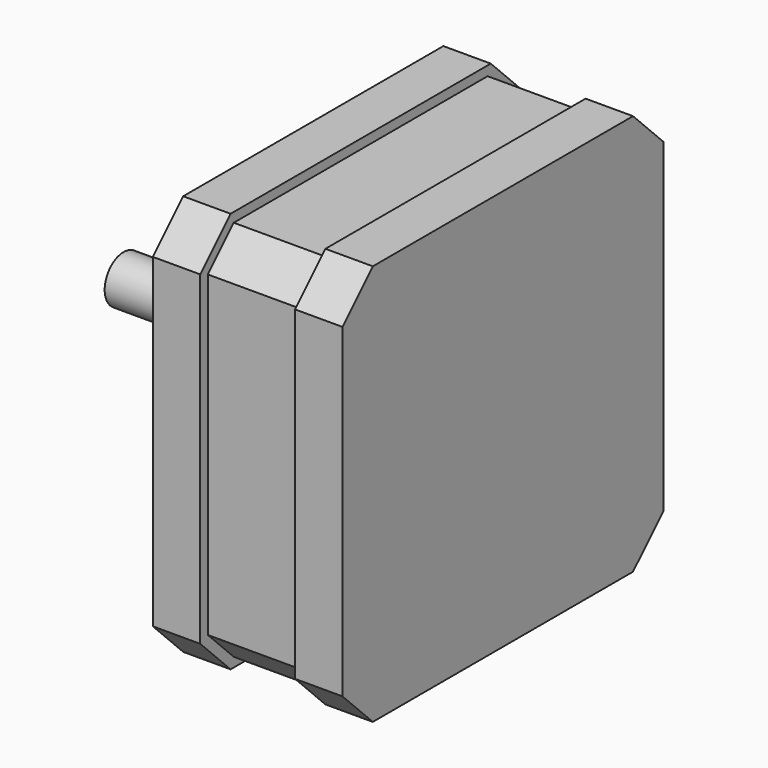
from build123d import *

# Parameters (mm, degrees)
F0_W     = 42.3
F0_H     = 42.3
F1_DEPTH = 10
F2_SIZE  = 4
F3_W     = 43
F3_H     = 43
F4_DEPTH = 5
F5_R     = 2.5
F6_DEPTH = 20
F8_D     = 2.4
F8_DEPTH = 8
F8_TIP   = 0.7210327428


with BuildPart() as f1:
    # F0 (on Right) → F1 (new body, symmetric)
    with BuildSketch(Plane.YZ):
        Rectangle(F0_W, F0_H)
    extrude(amount=F1_DEPTH, both=True)

    # F2
    f2_edges = [f1.edges().sort_by_distance(p)[0] for p in [
        (0, -21.15, 21.15),
        (0, 21.15, 21.15),
        (0, -21.15, -21.15),
        (0, 21.15, -21.15),
    ]]
    chamfer(f2_edges, length=F2_SIZE)

    # F3 (on Right) → F4 (cut, symmetric)
    with BuildSketch(Plane.YZ):
        Rectangle(F3_W, F3_H)
        Polygon((-16.7357864376, -20.15), (-20.15, -16.7357864376), (-20.15, 16.7357864376), (-16.7357864376, 20.15), (16.7357864376, 20.15), (20.15, 16.7357864376), (20.15, -16.7357864376), (16.7357864376, -20.15), align=None, mode=Mode.SUBTRACT)
    extrude(amount=F4_DEPTH, both=True, mode=Mode.SUBTRACT)

    # F5 (on face) → F6 (join)
    with BuildSketch(Plane(origin=(-10, 0, 0), x_dir=(0, -1, 0), z_dir=(-1, 0, 0))):
        Circle(F5_R)
    extrude(amount=F6_DEPTH)

    # F8
    with Locations(Plane(origin=(-10, 0, 0), x_dir=(0, -1, 0), z_dir=(-1, 0, 0))):
        with Locations((-15.5, 15.5), (15.5, 15.5), (-15.5, -15.5), (15.5, -15.5)):
            Hole(F8_D / 2, depth=F8_DEPTH)
            with Locations((0, 0, -(F8_DEPTH + F8_TIP / 2))):  # 118° drill point
                Cone(0, F8_D / 2, F8_TIP, mode=Mode.SUBTRACT)


solid = f1.part
